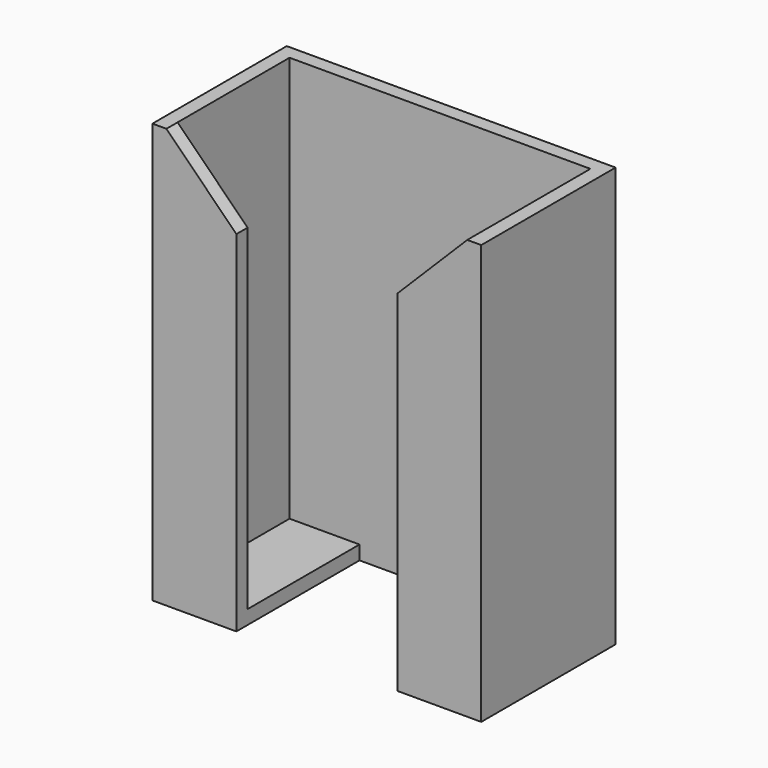
from build123d import *

# Parameters (mm, degrees)
F1_DEPTH = 60
F0_W     = 10
F0_H     = 20
F2_DEPTH = 2
F3_SIZE  = 10


with BuildPart() as f1:
    # F0 (on Top) → F1 (new body)
    with BuildSketch(Plane.XY):
        Polygon((-19.530129, -10.959504), (-19.530129, 9.040496), (-9.530129, 9.040496), (13.469871, 9.040496), (23.469871, 9.040496), (23.469871, -10.959504), (13.469871, -10.959504), (13.469871, -12.959504), (25.469871, -12.959504), (25.469871, 11.040496), (-21.530129, 11.040496), (-21.530129, -12.959504), (-9.530129, -12.959504), (-9.530129, -10.959504), align=None)
    extrude(amount=F1_DEPTH)

    # F0 (on Top) → F2 (join)
    with BuildSketch(Plane.XY):
        with Locations((-14.530129, -0.959504)):
            Rectangle(F0_W, F0_H)
        with Locations((18.469871, -0.959504)):
            Rectangle(F0_W, F0_H)
    extrude(amount=F2_DEPTH)

    # F3
    f3_edges = [f1.edges().sort_by_distance(p)[0] for p in [
        (-9.530129, -11.959504, 60),
        (13.469871, -11.959504, 60),
    ]]
    chamfer(f3_edges, length=F3_SIZE)


solid = f1.part
